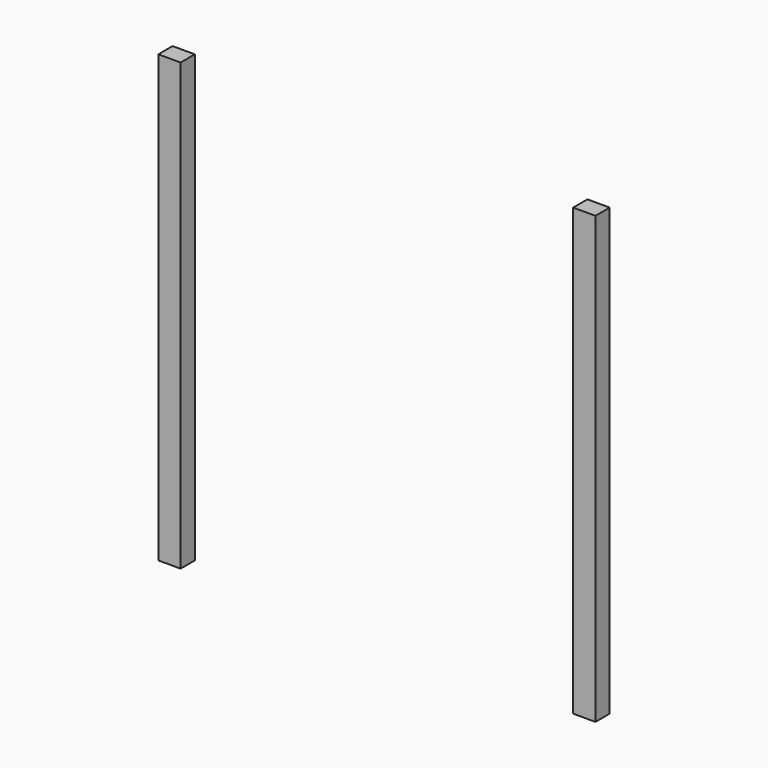
from build123d import *

# Parameters (mm, degrees)
F0_W     = 6.35
F0_H     = 127
F1_DEPTH = 2.54


with BuildPart() as f1:
    # F0 (on Front) → F1 (new body, symmetric)
    with BuildSketch(Plane.XZ):
        with Locations((-59.123225, -2.123498)):
            Rectangle(F0_W, F0_H)
        with Locations((59.123225, -2.123498)):
            Rectangle(F0_W, F0_H)
    extrude(amount=F1_DEPTH, both=True)


solid = f1.part
